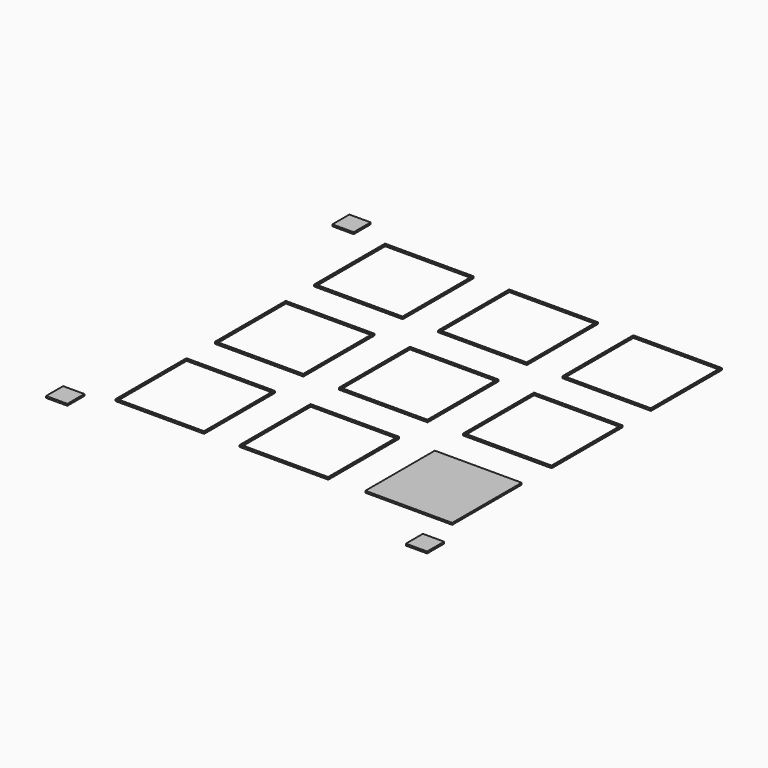
from build123d import *

# Parameters (mm, degrees)
F0_W     = 25
F0_H     = 25
F0_W_2   = 24.5
F0_H_2   = 24.5
F0_W_3   = 6
F0_H_3   = 6
F1_DEPTH = 0.5


with BuildPart() as f1:
    # F0 (on Top) → F1 (new body)
    with BuildSketch(Plane.XY):
        with Locations((-35, 0)):
            Rectangle(F0_W, F0_H)
        with Locations((-35, 0)):
            Rectangle(F0_W_2, F0_H_2, mode=Mode.SUBTRACT)
        with Locations((0, 35)):
            Rectangle(F0_W, F0_H)
        with Locations((0, 35)):
            Rectangle(F0_W_2, F0_H_2, mode=Mode.SUBTRACT)
        with Locations((-35, 35)):
            Rectangle(F0_W, F0_H)
        with Locations((-35, 35)):
            Rectangle(F0_W_2, F0_H_2, mode=Mode.SUBTRACT)
        Rectangle(F0_W, F0_H)
        Rectangle(F0_W_2, F0_H_2, mode=Mode.SUBTRACT)
        with Locations((-35, -35)):
            Rectangle(F0_W, F0_H)
        with Locations((-35, -35)):
            Rectangle(F0_W_2, F0_H_2, mode=Mode.SUBTRACT)
        Polygon((-12.25, -47.25), (-4.531539, -47.25), (12.25, -47.25), (12.25, -22.75), (-12.25, -22.75), align=None)
        with Locations((0, -35.25)):
            Rectangle(F0_W_3, F0_H_3, mode=Mode.SUBTRACT)
        Polygon((-12.5, -47.5), (-4.531539, -47.5), (12.5, -47.5), (12.5, -22.5), (-12.5, -22.5), align=None)
        Polygon((12.25, -47.25), (-4.531539, -47.25), (-12.25, -47.25), (-12.25, -22.75), (12.25, -22.75), align=None, mode=Mode.SUBTRACT)
        with Locations((35, -35)):
            Rectangle(F0_W_2, F0_H_2)
        with Locations((35, 35)):
            Rectangle(F0_W, F0_H)
        with Locations((35, 35)):
            Rectangle(F0_W_2, F0_H_2, mode=Mode.SUBTRACT)
        with Locations((35, 0)):
            Rectangle(F0_W, F0_H)
        with Locations((35, 0)):
            Rectangle(F0_W_2, F0_H_2, mode=Mode.SUBTRACT)
        with Locations((-59.274712, 50.408808)):
            Rectangle(F0_W_3, F0_H_3)
        with Locations((-57.379136, -52.863753)):
            Rectangle(F0_W_3, F0_H_3)
        with Locations((48.465514, -58.366096)):
            Rectangle(F0_W_3, F0_H_3)
    extrude(amount=F1_DEPTH)


solid = f1.part
